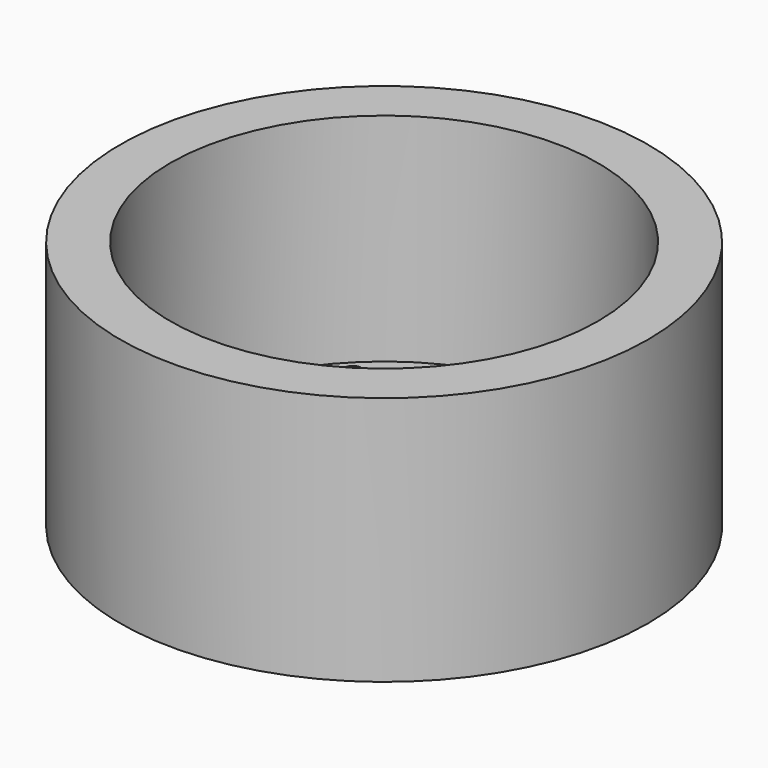
from build123d import *

# Parameters (mm, degrees)
F0_R     = 16.3195
F0_R_2   = 0.635
F1_DEPTH = 2.54
F0_R_3   = 20.1295
F2_DEPTH = 19.05


with BuildPart() as f1:
    # F0 (on Top) → F1 (new body)
    with BuildSketch(Plane.XY):
        Circle(F0_R)
        with Locations((-10.644357, -10.906661)):
            Circle(F0_R_2, mode=Mode.SUBTRACT)
        with Locations((-5.567701, -14.186554)):
            Circle(F0_R_2, mode=Mode.SUBTRACT)
        with Locations((-14.003354, -6.013625)):
            Circle(F0_R_2, mode=Mode.SUBTRACT)
        with Locations((-7.184205, -7.184205)):
            Circle(F0_R_2, mode=Mode.SUBTRACT)
        with Locations((-3.888064, -9.386616)):
            Circle(F0_R_2, mode=Mode.SUBTRACT)
        with Locations((-9.388233, -3.884157)):
            Circle(F0_R_2, mode=Mode.SUBTRACT)
        with Locations((-3.592102, -3.592102)):
            Circle(F0_R_2, mode=Mode.SUBTRACT)
        with Locations((-1.944032, -4.693308)):
            Circle(F0_R_2, mode=Mode.SUBTRACT)
        with Locations((-4.694117, -1.942079)):
            Circle(F0_R_2, mode=Mode.SUBTRACT)
        with Locations((0, -15.24)):
            Circle(F0_R_2, mode=Mode.SUBTRACT)
        with Locations((0, -12.7)):
            Circle(F0_R_2, mode=Mode.SUBTRACT)
        with Locations((0, -10.16)):
            Circle(F0_R_2, mode=Mode.SUBTRACT)
        with Locations((6.013625, -14.003354)):
            Circle(F0_R_2, mode=Mode.SUBTRACT)
        with Locations((10.543106, -10.289545)):
            Circle(F0_R_2, mode=Mode.SUBTRACT)
        with Locations((3.982214, -9.347062)):
            Circle(F0_R_2, mode=Mode.SUBTRACT)
        with Locations((0, -7.184205)):
            Circle(F0_R_2, mode=Mode.SUBTRACT)
        with Locations((0, -5.08)):
            Circle(F0_R_2, mode=Mode.SUBTRACT)
        with Locations((7.184205, -7.184205)):
            Circle(F0_R_2, mode=Mode.SUBTRACT)
        with Locations((1.944032, -4.693308)):
            Circle(F0_R_2, mode=Mode.SUBTRACT)
        with Locations((3.592102, -3.592102)):
            Circle(F0_R_2, mode=Mode.SUBTRACT)
        with Locations((4.693308, -1.944032)):
            Circle(F0_R_2, mode=Mode.SUBTRACT)
        with Locations((9.386616, -3.888064)):
            Circle(F0_R_2, mode=Mode.SUBTRACT)
        with Locations((14.186554, -5.567701)):
            Circle(F0_R_2, mode=Mode.SUBTRACT)
        with Locations((-15.24, 0)):
            Circle(F0_R_2, mode=Mode.SUBTRACT)
        with Locations((-12.7, 0)):
            Circle(F0_R_2, mode=Mode.SUBTRACT)
        with Locations((-10.16, 0)):
            Circle(F0_R_2, mode=Mode.SUBTRACT)
        with Locations((-14.124854, 5.548119)):
            Circle(F0_R_2, mode=Mode.SUBTRACT)
        with Locations((-7.184205, 0)):
            Circle(F0_R_2, mode=Mode.SUBTRACT)
        with Locations((-5.08, 0)):
            Circle(F0_R_2, mode=Mode.SUBTRACT)
        with Locations((-9.386616, 3.888064)):
            Circle(F0_R_2, mode=Mode.SUBTRACT)
        with Locations((-4.693308, 1.944032)):
            Circle(F0_R_2, mode=Mode.SUBTRACT)
        with Locations((-3.592102, 3.592102)):
            Circle(F0_R_2, mode=Mode.SUBTRACT)
        with Locations((-1.944032, 4.693308)):
            Circle(F0_R_2, mode=Mode.SUBTRACT)
        with Locations((-7.184205, 7.184205)):
            Circle(F0_R_2, mode=Mode.SUBTRACT)
        with Locations((-3.888064, 9.386616)):
            Circle(F0_R_2, mode=Mode.SUBTRACT)
        with Locations((-10.906661, 10.644357)):
            Circle(F0_R_2, mode=Mode.SUBTRACT)
        with Locations((-6.013625, 14.003354)):
            Circle(F0_R_2, mode=Mode.SUBTRACT)
        Circle(F0_R_2, mode=Mode.SUBTRACT)
        with Locations((1.944032, 4.693308)):
            Circle(F0_R_2, mode=Mode.SUBTRACT)
        with Locations((3.592102, 3.592102)):
            Circle(F0_R_2, mode=Mode.SUBTRACT)
        with Locations((5.08, 0)):
            Circle(F0_R_2, mode=Mode.SUBTRACT)
        with Locations((7.184205, 0)):
            Circle(F0_R_2, mode=Mode.SUBTRACT)
        with Locations((5.04853, 2.09117)):
            Circle(F0_R_2, mode=Mode.SUBTRACT)
        with Locations((0, 5.08)):
            Circle(F0_R_2, mode=Mode.SUBTRACT)
        with Locations((0, 7.184205)):
            Circle(F0_R_2, mode=Mode.SUBTRACT)
        with Locations((3.888064, 9.386616)):
            Circle(F0_R_2, mode=Mode.SUBTRACT)
        with Locations((7.184205, 7.184205)):
            Circle(F0_R_2, mode=Mode.SUBTRACT)
        with Locations((10.16, 0)):
            Circle(F0_R_2, mode=Mode.SUBTRACT)
        with Locations((12.7, 0)):
            Circle(F0_R_2, mode=Mode.SUBTRACT)
        with Locations((10.09706, 4.182339)):
            Circle(F0_R_2, mode=Mode.SUBTRACT)
        with Locations((15.24, 0)):
            Circle(F0_R_2, mode=Mode.SUBTRACT)
        with Locations((14.003354, 6.013625)):
            Circle(F0_R_2, mode=Mode.SUBTRACT)
        with Locations((0, 10.16)):
            Circle(F0_R_2, mode=Mode.SUBTRACT)
        with Locations((0, 12.7)):
            Circle(F0_R_2, mode=Mode.SUBTRACT)
        with Locations((5.567701, 14.186554)):
            Circle(F0_R_2, mode=Mode.SUBTRACT)
        with Locations((0, 15.24)):
            Circle(F0_R_2, mode=Mode.SUBTRACT)
        with Locations((10.644357, 10.906661)):
            Circle(F0_R_2, mode=Mode.SUBTRACT)
    extrude(amount=F1_DEPTH)

    # F0 (on Top) → F2 (join)
    with BuildSketch(Plane.XY):
        Circle(F0_R_3)
        Circle(F0_R, mode=Mode.SUBTRACT)
    extrude(amount=F2_DEPTH)


solid = f1.part
